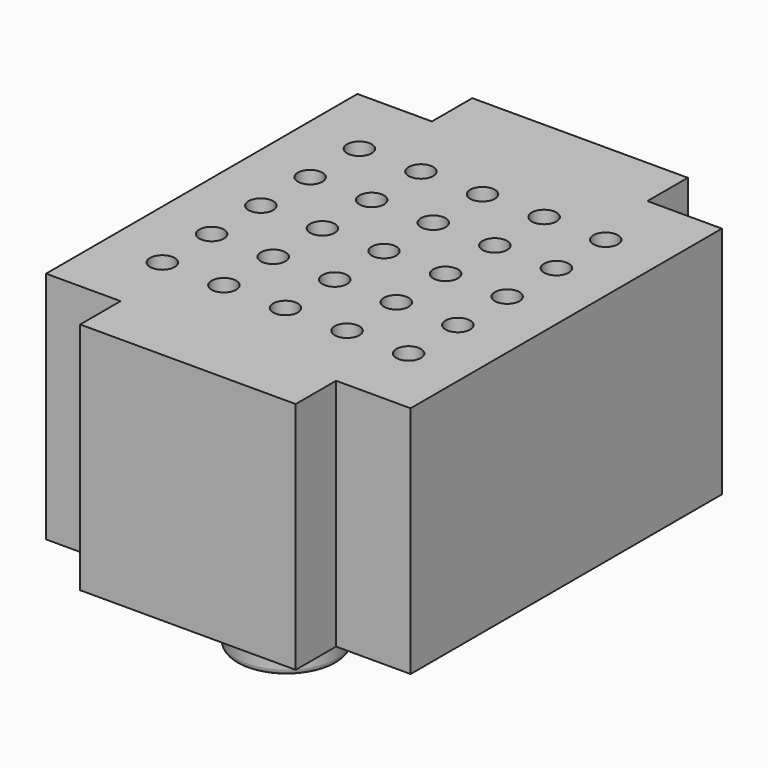
from build123d import *

# Parameters (mm, degrees)
F1_DEPTH = 9.5
F2_R     = 0.5
F3_DEPTH = 2
F4_R     = 2.05
F5_DEPTH = 2.6
F6_R     = 0.2
F8_ANGLE = 90


with BuildPart() as f1:
    # F0 (on Top) → F1 (new body)
    with BuildSketch(Plane.XY):
        Polygon((-9.95, 4.375), (-9.95, 0), (-9.95, -4.375), (-7.9, -4.375), (-7.9, -7.4), (0, -7.4), (7.9, -7.4), (7.9, -4.375), (9.95, -4.375), (9.95, 0), (9.95, 4.375), (7.9, 4.375), (7.9, 7.4), (0, 7.4), (-7.9, 7.4), (-7.9, 4.375), align=None)
    extrude(amount=F1_DEPTH)

    # F2 (on face) → F3 (cut)
    with BuildSketch(Plane.XY.offset(9.5)):
        Circle(F2_R)
        with Locations((0, 2.5)):
            Circle(F2_R)
        with Locations((0, 5)):
            Circle(F2_R)
        with Locations((2.5, 0)):
            Circle(F2_R)
        with Locations((2.5, 2.5)):
            Circle(F2_R)
        with Locations((2.5, 5)):
            Circle(F2_R)
        with Locations((5, 0)):
            Circle(F2_R)
        with Locations((5, 2.5)):
            Circle(F2_R)
        with Locations((5, 5)):
            Circle(F2_R)
        with Locations((-5, 0)):
            Circle(F2_R)
        with Locations((-2.5, 5)):
            Circle(F2_R)
        with Locations((-2.5, 2.5)):
            Circle(F2_R)
        with Locations((-2.5, 0)):
            Circle(F2_R)
        with Locations((-5, 2.5)):
            Circle(F2_R)
        with Locations((-5, 5)):
            Circle(F2_R)
        with Locations((2.5, -5)):
            Circle(F2_R)
        with Locations((2.5, -2.5)):
            Circle(F2_R)
        with Locations((0, -5)):
            Circle(F2_R)
        with Locations((0, -2.5)):
            Circle(F2_R)
        with Locations((-5, -2.5)):
            Circle(F2_R)
        with Locations((5, -2.5)):
            Circle(F2_R)
        with Locations((5, -5)):
            Circle(F2_R)
        with Locations((-2.5, -5)):
            Circle(F2_R)
        with Locations((-5, -5)):
            Circle(F2_R)
        with Locations((-2.5, -2.5)):
            Circle(F2_R)
    extrude(amount=-F3_DEPTH, mode=Mode.SUBTRACT)

    # F4 (on Top) → F5 (join)
    with BuildSketch(Plane.XY):
        with Locations((-4.95, 0)):
            Circle(F4_R)
        with Locations((4.95, 0)):
            Circle(F4_R)
    extrude(amount=-F5_DEPTH)

    # F6
    f6_edges = [f1.edges().sort_by_distance(p)[0] for p in [
        (-7, 0, -2.6),
        (2.9, 0, -2.6),
    ]]
    fillet(f6_edges, radius=F6_R)


with BuildPart() as f1_1:
    # F8: moved
    add(f1.part.rotate(Axis((0, 0, 33.902004), (0, 0, 1)), F8_ANGLE))


solid = f1_1.part
